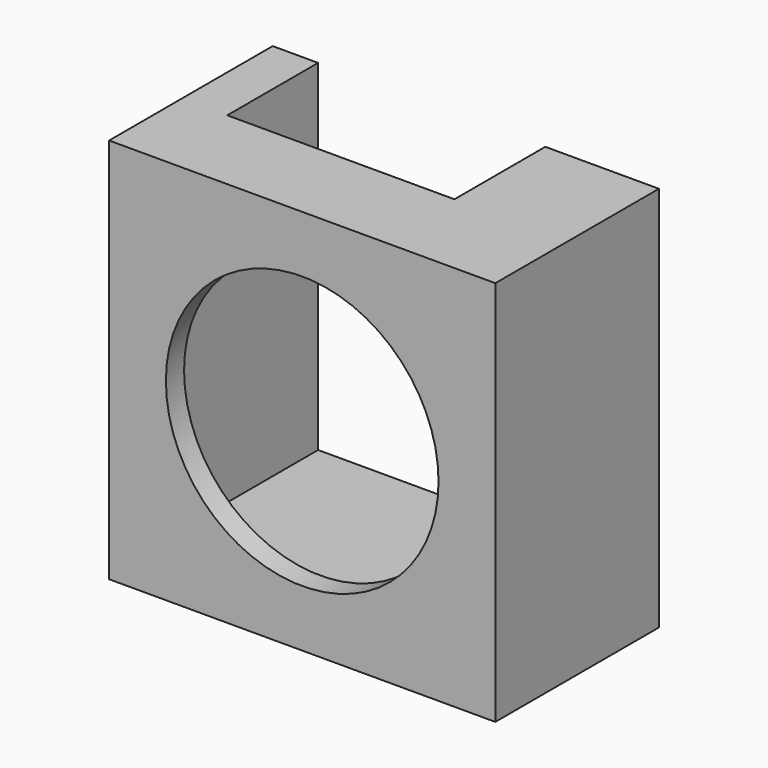
from build123d import *

# Parameters (mm, degrees)
F0_W      = 13
F0_H      = 13
F1_DEPTH  = 5
F2_R      = 6
F3_DEPTH  = 25
F4_W      = 13
F4_H      = 1
F5_DEPTH  = 2
F6_W      = 1
F6_H      = 17
F7_DEPTH  = 2
F8_W      = 1
F8_H      = 15
F9_DEPTH  = 2
F10_DEPTH = 15
F11_DEPTH = 8
F12_DEPTH = 4
F13_W     = 10
F13_H     = 2
F14_DEPTH = 5


with BuildPart() as f1:
    # F0 (on Front) → F1 (new body)
    with BuildSketch(Plane.XZ):
        Rectangle(F0_W, F0_H)
    extrude(amount=F1_DEPTH)

    # F2 (on face) → F3 (cut)
    with BuildSketch(Plane(origin=(0, 0, 0), x_dir=(-1, 0, 0), z_dir=(0, 1, 0))):
        Circle(F2_R)
    extrude(amount=-F3_DEPTH, mode=Mode.SUBTRACT)

    # F4 (on face) → F5 (join)
    with BuildSketch(Plane.XY.offset(6.5)):
        with Locations((0, -4.5)):
            Rectangle(F4_W, F4_H)
    extrude(amount=F5_DEPTH)

    # F6 (on face) → F7 (join)
    with BuildSketch(Plane.YZ.offset(6.5)):
        with Locations((-4.5, 0)):
            Rectangle(F6_W, F6_H)
    extrude(amount=F7_DEPTH)

    # F8 (on face) → F9 (join)
    with BuildSketch(Plane(origin=(-6.5, 0, 0), x_dir=(0, -1, 0), z_dir=(-1, 0, 0))):
        with Locations((4.5, 1)):
            Rectangle(F8_W, F8_H)
    extrude(amount=F9_DEPTH)

    # F10 (add): a face of the model
    f10_faces = [f1.faces().sort_by_distance(p)[0] for p in [
        (6.5, -4.5, -7.5),
    ]]
    extrude(f10_faces, amount=F10_DEPTH)

    # F11 (add): a face of the model
    f11_faces = [f1.faces().sort_by_distance(p)[0] for p in [
        (0, -4, -8.2595836944),
    ]]
    extrude(f11_faces, amount=F11_DEPTH)

    # F12 (cut): a face of the model
    f12_faces = [f1.faces().sort_by_distance(p)[0] for p in [
        (6.3161522369, 0, 0),
    ]]
    extrude(f12_faces, amount=-F12_DEPTH, mode=Mode.SUBTRACT)

    # F13 (on face) → F14 (cut)
    with BuildSketch(Plane(origin=(0, 4, 0), x_dir=(-1, 0, 0), z_dir=(0, 1, 0))):
        with Locations((1.5, 7.5)):
            Rectangle(F13_W, F13_H)
    extrude(amount=-F14_DEPTH, mode=Mode.SUBTRACT)


solid = f1.part
